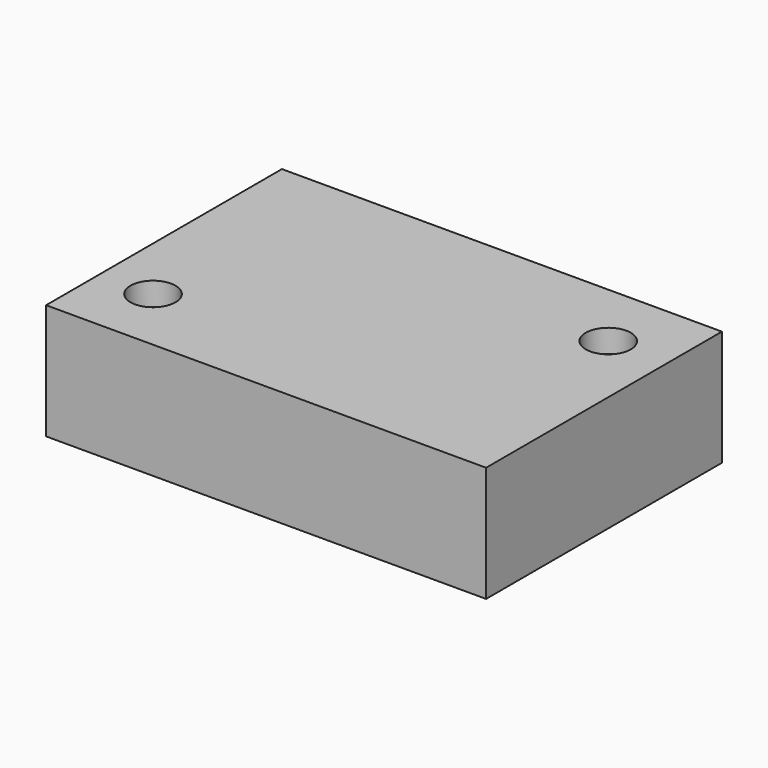
from build123d import *

# Parameters (mm, degrees)
F0_W           = 95.2388942242
F0_H           = 63.8058483601
F1_DEPTH       = 25
F3_D           = 4.1
F3_CBORE_D     = 9.75
F3_CBORE_DEPTH = 5
F5_D           = 4.1
F5_CBORE_D     = 9.75
F5_CBORE_DEPTH = 5


with BuildPart() as f1:
    # F0 (on Top) → F1 (new body)
    with BuildSketch(Plane.XY):
        Rectangle(F0_W, F0_H)
    extrude(amount=F1_DEPTH)

    # F3 (through all)
    with Locations(Plane.XY.offset(25)):
        with Locations((-36.0746867955, -17.4044892192)):
            CounterBoreHole(F3_D / 2, F3_CBORE_D / 2, F3_CBORE_DEPTH)

    # F5 (through all)
    with Locations(Plane.XY.offset(25)):
        with Locations((34.78269279, 17.2065105289)):
            CounterBoreHole(F5_D / 2, F5_CBORE_D / 2, F5_CBORE_DEPTH)


solid = f1.part
